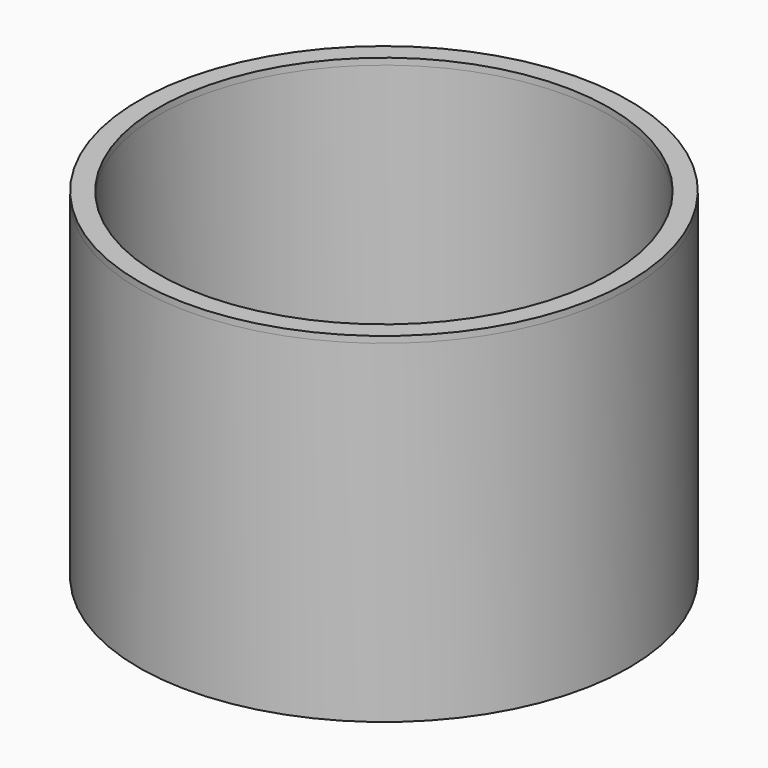
from build123d import *

# Parameters (mm, degrees)
F0_R     = 75
F0_R_2   = 65
F1_DEPTH = 2
F2_R     = 66.5
F2_R_2   = 65
F3_DEPTH = 10
F2_R_3   = 75
F2_R_4   = 73.5
F4_DEPTH = 100
F5_R     = 75
F5_R_2   = 71
F5_R_3   = 69
F6_DEPTH = 2
F7_DEPTH = 95


with BuildPart() as f1:
    # F0 (on Top) → F1 (new body)
    with BuildSketch(Plane.XY):
        Circle(F0_R)
        Circle(F0_R_2, mode=Mode.SUBTRACT)
    extrude(amount=F1_DEPTH)

    # F2 (on face) → F3 (join)
    with BuildSketch(Plane.XY.offset(2)):
        Circle(F2_R)
        Circle(F2_R_2, mode=Mode.SUBTRACT)
    extrude(amount=F3_DEPTH)

    # F2 (on face) → F4 (join)
    with BuildSketch(Plane.XY.offset(2)):
        Circle(F2_R_3)
        Circle(F2_R_4, mode=Mode.SUBTRACT)
    extrude(amount=F4_DEPTH)


with BuildPart() as f6:
    # F5 (on face) → F6 (new body)
    with BuildSketch(Plane.XY.offset(102)):
        Circle(F5_R)
        Circle(F5_R_2, mode=Mode.SUBTRACT)
        Circle(F5_R_2)
        Circle(F5_R_3, mode=Mode.SUBTRACT)
    extrude(amount=F6_DEPTH)

    # F5 (on face) → F7 (join)
    with BuildSketch(Plane.XY.offset(102)):
        Circle(F5_R_2)
        Circle(F5_R_3, mode=Mode.SUBTRACT)
    extrude(amount=-F7_DEPTH)


solid = Compound([f1.part, f6.part])
